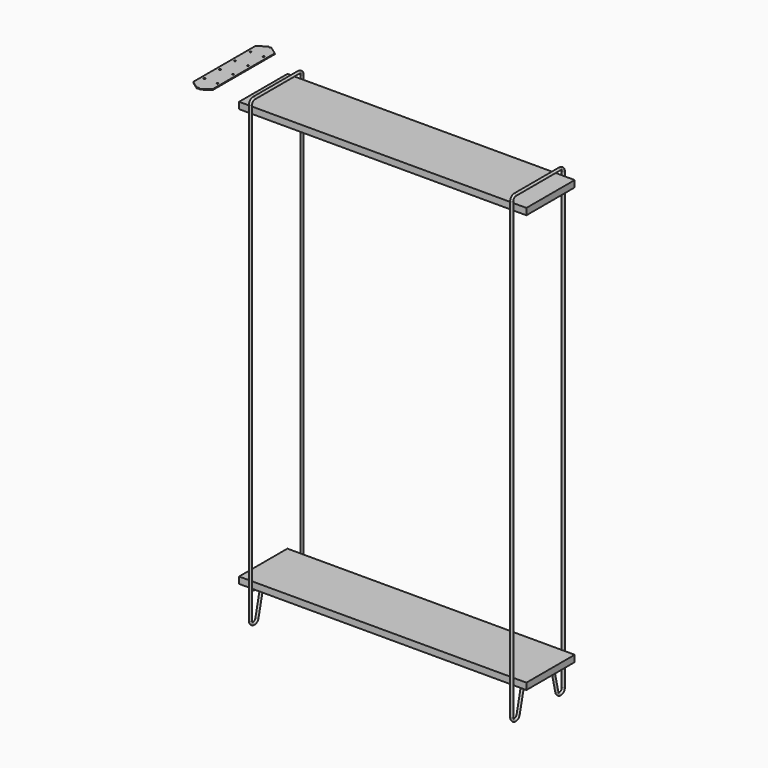
from build123d import *

# Parameters (mm, degrees)
F1_R          = 4.7625
F5_W          = 234.95
F5_H          = 25.4
F6_DEPTH      = 558.8
F6_DEPTH_BACK = 558.8
F7_R          = 3.175
F8_DEPTH      = 3.175
F9_R          = 0.635
F10_R         = 6.35
F11_R         = 5.08
F12_R         = 3.175
F13_DEPTH     = 3.175


with BuildPart() as f2:
    # F2: sweep along a path in F0
    with BuildLine(Plane.YZ) as f2_path:
        Line((68.2625, -1676.4), (94.0826250442, -1786.3905111769))
        ThreePointArc((94.0826250442, -1786.3905111769), (111.3636277442, -1798.5321189701), (125.4125, -1782.7625))
        Line((125.4125, -1782.7625), (125.4125, -15.875))
        ThreePointArc((125.4125, -15.875), (120.7628201513, -4.6496798487), (109.5375, 0))
        Line((109.5375, 0), (0, 0))
        Line((0, 0), (-109.5375, 0))
        ThreePointArc((-109.5375, 0), (-120.7628201513, -4.6496798487), (-125.4125, -15.875))
        Line((-125.4125, -15.875), (-125.4125, -1782.7625))
        ThreePointArc((-125.4125, -1782.7625), (-111.3636277442, -1798.5321189701), (-94.0826250442, -1786.3905111769))
        Line((-94.0826250442, -1786.3905111769), (-68.2625, -1676.4))
    # F1 (on Front) → F2 (sweep)
    with BuildSketch(Plane.XZ):
        Circle(F1_R)
    sweep(path=f2_path.line)


with BuildPart() as f4_1:
    # F4: instance of F2
    add(f2.part.mirror(Plane.YZ.offset(508)))


with BuildPart() as f6:
    # F5 (on offset) → F6 (new body, two sides)
    with BuildSketch(Plane.YZ.offset(508)) as f6_sk:
        with Locations((0, -38.1)):
            Rectangle(F5_W, F5_H)
    extrude(amount=F6_DEPTH)
    extrude(f6_sk.sketch, amount=-F6_DEPTH_BACK)


with BuildPart() as f6b:
    # F5 (on offset) → F6, piece 2 (new body, two sides)
    with BuildSketch(Plane.YZ.offset(508)) as f6_2_sk:
        with Locations((0, -1663.7)):
            Rectangle(F5_W, F5_H)
    extrude(amount=F6_DEPTH)
    extrude(f6_2_sk.sketch, amount=-F6_DEPTH_BACK)


with BuildPart() as f8:
    # F7 (on face) → F8 (new body)
    with BuildSketch(Plane(origin=(0, 0, -1676.4), x_dir=(1, 0, 0), z_dir=(0, 0, -1))):
        with BuildLine():
            ThreePointArc((4.5827174779, 124.1163106745), (0, 120.65), (-4.5827174779, 124.1163106745))
            Line((-4.5827174779, 124.1163106745), (-9.525, 111.76))
            Line((-9.525, 111.76), (-9.525, -111.76))
            Line((-9.525, -111.76), (-2.6871273677, -123.843813046))
            ThreePointArc((-2.6871273677, -123.843813046), (0, -122.301), (2.6871273677, -123.843813046))
            Line((2.6871273677, -123.843813046), (9.525, -111.76))
            Line((9.525, -111.76), (9.525, 10.6992584002))
            Line((9.525, 10.6992584002), (9.525, 106.0275776148))
            Line((9.525, 106.0275776148), (9.525, 111.76))
            Line((9.525, 111.76), (4.5827174779, 124.1163106745))
        make_face()
        with Locations((0, -95.25)):
            Circle(F7_R, mode=Mode.SUBTRACT)
        with Locations((0, -44.45)):
            Circle(F7_R, mode=Mode.SUBTRACT)
        Circle(F7_R, mode=Mode.SUBTRACT)
        with Locations((0, 44.45)):
            Circle(F7_R, mode=Mode.SUBTRACT)
        with Locations((0, 95.25)):
            Circle(F7_R, mode=Mode.SUBTRACT)
        with BuildLine():
            Line((60.325, 106.0275776148), (9.525, 106.0275776148))
            Line((9.525, 106.0275776148), (9.525, 10.6992584002))
            Line((9.525, 10.6992584002), (60.325, 10.6992584002))
            ThreePointArc((60.325, 10.6992584002), (69.3052561211, 14.4190022792), (73.025, 23.3992584002))
            Line((73.025, 23.3992584002), (73.025, 93.3275776148))
            ThreePointArc((73.025, 93.3275776148), (69.3052561211, 102.3078337359), (60.325, 106.0275776148))
        make_face()
        with Locations((60.325, 23.3992584002)):
            Circle(F7_R, mode=Mode.SUBTRACT)
        with Locations((60.325, 93.3275776148)):
            Circle(F7_R, mode=Mode.SUBTRACT)
    extrude(amount=F8_DEPTH)

    # F9
    f9_edges = [f8.edges().sort_by_distance(p)[0] for p in [
        (4.582717, -124.116311, -1677.9875),
        (2.687127, 123.843813, -1677.9875),
        (-2.687127, 123.843813, -1677.9875),
        (-4.582717, -124.116311, -1677.9875),
    ]]
    fillet(f9_edges, radius=F9_R)

    # F10
    f10_edges = [f8.edges().sort_by_distance(p)[0] for p in [
        (-9.525, 111.76, -1677.9875),
        (9.525, 111.76, -1677.9875),
        (9.525, -111.76, -1677.9875),
        (-9.525, -111.76, -1677.9875),
    ]]
    fillet(f10_edges, radius=F10_R)

    # F11
    f11_edges = [f8.edges().sort_by_distance(p)[0] for p in [
        (9.525, -10.699258, -1677.9875),
        (9.525, -106.027578, -1677.9875),
    ]]
    fillet(f11_edges, radius=F11_R)


with BuildPart() as f13:
    # F12 (on Top) → F13 (new body)
    with BuildSketch(Plane.XY):
        with BuildLine():
            Line((-207.1701182604, 156.2326253128), (-207.1701182604, 5.7376253128))
            Line((-207.1701182604, 5.7376253128), (-130.9701182604, 5.7376253128))
            Line((-130.9701182604, 5.7376253128), (-130.9701182604, 156.2326253128))
            Line((-130.9701182604, 156.2326253128), (-164.4800740068, 180.3626253128))
            ThreePointArc((-164.4800740068, 180.3626253128), (-169.0701182604, 176.8701253128), (-173.660162514, 180.3626253128))
            Line((-173.660162514, 180.3626253128), (-207.1701182604, 156.2326253128))
        make_face()
        with Locations((-194.4701182604, 41.9326253128)):
            Circle(F12_R, mode=Mode.SUBTRACT)
        with Locations((-194.4701182604, 118.1326253128)):
            Circle(F12_R, mode=Mode.SUBTRACT)
        with Locations((-143.6701182604, 41.9326253128)):
            Circle(F12_R, mode=Mode.SUBTRACT)
        with Locations((-143.6701182604, 118.1326253128)):
            Circle(F12_R, mode=Mode.SUBTRACT)
        with BuildLine():
            Line((-130.9701182604, 5.7376253128), (-207.1701182604, 5.7376253128))
            Line((-207.1701182604, 5.7376253128), (-207.1701182604, -144.7573746872))
            Line((-207.1701182604, -144.7573746872), (-173.660162514, -168.8873746872))
            ThreePointArc((-173.660162514, -168.8873746872), (-169.0701182604, -165.3948746872), (-164.4800740068, -168.8873746872))
            Line((-164.4800740068, -168.8873746872), (-130.9701182604, -144.7573746872))
            Line((-130.9701182604, -144.7573746872), (-130.9701182604, 5.7376253128))
        make_face()
        with Locations((-194.4701182604, -106.6573746872)):
            Circle(F12_R, mode=Mode.SUBTRACT)
        with Locations((-194.4701182604, -30.4573746872)):
            Circle(F12_R, mode=Mode.SUBTRACT)
        with Locations((-143.6701182604, -106.6573746872)):
            Circle(F12_R, mode=Mode.SUBTRACT)
        with Locations((-143.6701182604, -30.4573746872)):
            Circle(F12_R, mode=Mode.SUBTRACT)
    extrude(amount=F13_DEPTH)


solid = Compound([f2.part, f4_1.part, f6.part, f6b.part, f8.part, f13.part])
